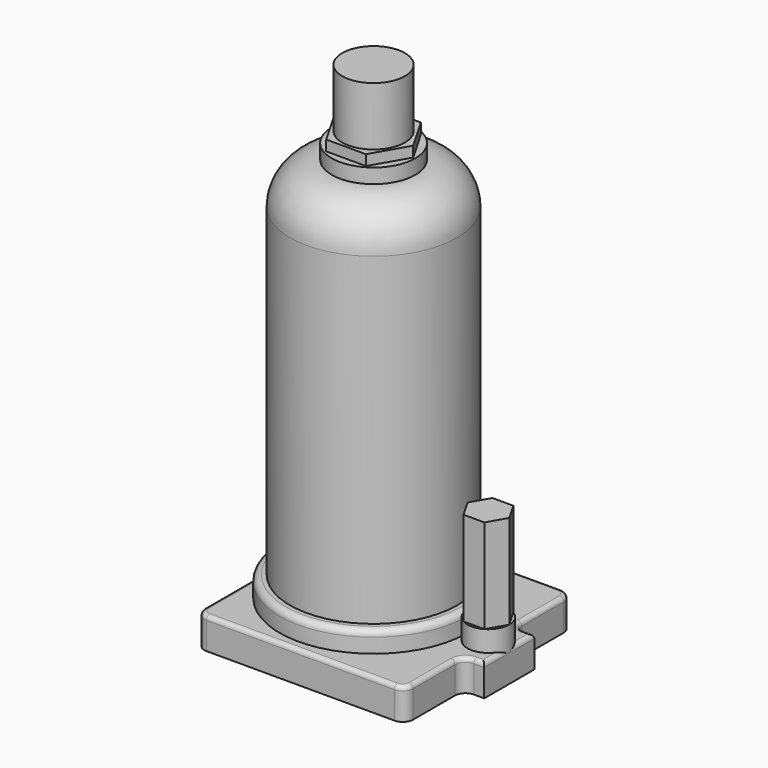
from build123d import *

# Parameters (mm, degrees)
PRISM_DEPTH       = 70
SKETCH001_R       = 10
EXTRUDE001_DEPTH  = 25
CYLINDER002_R     = 20
CYLINDER002_DEPTH = 7
PRISM001_DEPTH    = 12
CYLINDER001_R     = 45
CYLINDER001_DEPTH = 25
FILLET003_R       = 3
CYLINDER003_R     = 15
CYLINDER003_DEPTH = 150
EXTRUDE_DEPTH     = 15
FILLET_R          = 5
FILLET001_R       = 2
CYLINDER_R        = 40
CYLINDER_DEPTH    = 200
FILLET002_R       = 20


with BuildPart() as prisma:
    # Prism → Prism (new body)
    with BuildSketch(Plane(origin=(50, 0, 0), x_dir=(1, 0, 0), z_dir=(0, 0, 1))):
        Polygon((10, 0), (5, 8.660254), (-5, 8.660254), (-10, 0), (-5, -8.660254), (5, -8.660254), align=None)
    extrude(amount=PRISM_DEPTH)


with BuildPart() as fusion001:
    # Sketch001 → Extrude001 (new body)
    with BuildSketch(Plane.XY):
        with Locations((50, 0)):
            Circle(SKETCH001_R)
    extrude(amount=EXTRUDE001_DEPTH)

    # Fusion001: union Prisma
    add(prisma.part)


with BuildPart() as cilindro002:
    # Cylinder002 → Cylinder002 (new body)
    with BuildSketch(Plane(origin=(-5, 0, 200), x_dir=(1, 0, 0), z_dir=(0, 0, 1))):
        Circle(CYLINDER002_R)
    extrude(amount=CYLINDER002_DEPTH)


with BuildPart() as fusion004:
    # Prism001 → Prism001 (new body)
    with BuildSketch(Plane(origin=(-5, 0, 200), x_dir=(1, 0, 0), z_dir=(0, 0, 1))):
        Polygon((19, 0), (9.5, 16.454483), (-9.5, 16.454483), (-19, 0), (-9.5, -16.454483), (9.5, -16.454483), align=None)
    extrude(amount=PRISM001_DEPTH)

    # Fusion: union Cilindro002
    add(cilindro002.part)

    # Fusion004: union Fusion001
    add(fusion001.part)


with BuildPart() as fillet003:
    # Cylinder001 → Cylinder001 (new body)
    with BuildSketch(Plane(origin=(-5, 0, 0), x_dir=(1, 0, 0), z_dir=(0, 0, 1))):
        Circle(CYLINDER001_R)
    extrude(amount=CYLINDER001_DEPTH)

    # Fillet003
    fillet003_edges = [fillet003.edges().sort_by_distance(p)[0] for p in [
        (-50, 0, 25),
    ]]
    fillet(fillet003_edges, radius=FILLET003_R)


with BuildPart() as fusion003:
    # Cylinder003 → Cylinder003 (new body)
    with BuildSketch(Plane(origin=(-5, 0, 90), x_dir=(1, 0, 0), z_dir=(0, 0, 1))):
        Circle(CYLINDER003_R)
    extrude(amount=CYLINDER003_DEPTH)

    # Fusion003: union Fillet003
    add(fillet003.part)


with BuildPart() as fillet001:
    # Sketch → Extrude (new body)
    with BuildSketch(Plane.XY):
        Polygon((-50, 50), (-50, -50), (50, -50), (50, -15), (60, -15), (60, 15), (50, 15), (50, 50), align=None)
    extrude(amount=EXTRUDE_DEPTH)

    # Fillet
    fillet_edges = [fillet001.edges().sort_by_distance(p)[0] for p in [
        (-50, 50, 7.5),
        (-50, -50, 7.5),
        (50, -50, 7.5),
        (50, -15, 7.5),
        (50, 15, 7.5),
        (50, 50, 7.5),
    ]]
    fillet(fillet_edges, radius=FILLET_R)

    # Fillet001
    fillet001_edges = [fillet001.edges().sort_by_distance(p)[0] for p in [
        (-50, 0, 15),
        (-48.535534, 48.535534, 15),
        (-48.535534, -48.535534, 15),
        (0, 50, 15),
        (0, -50, 15),
        (48.535534, 48.535534, 15),
        (48.535534, -48.535534, 15),
        (50, 32.5, 15),
        (50, -32.5, 15),
        (51.464466, 16.464466, 15),
        (51.464466, -16.464466, 15),
        (57.5, 15, 15),
        (57.5, -15, 15),
        (60, 0, 15),
    ]]
    fillet(fillet001_edges, radius=FILLET001_R)


with BuildPart() as obj1:
    # Cylinder → Cylinder (new body)
    with BuildSketch(Plane(origin=(-5, 0, 0), x_dir=(1, 0, 0), z_dir=(0, 0, 1))):
        Circle(CYLINDER_R)
    extrude(amount=CYLINDER_DEPTH)

    # Fillet002
    fillet002_edges = [obj1.edges().sort_by_distance(p)[0] for p in [
        (-45, 0, 200),
    ]]
    fillet(fillet002_edges, radius=FILLET002_R)

    # Fusion002: union Fillet001
    add(fillet001.part)

    # Fusion005: union Fusion004, Fusion003
    add(fusion004.part)
    add(fusion003.part)


solid = obj1.part
